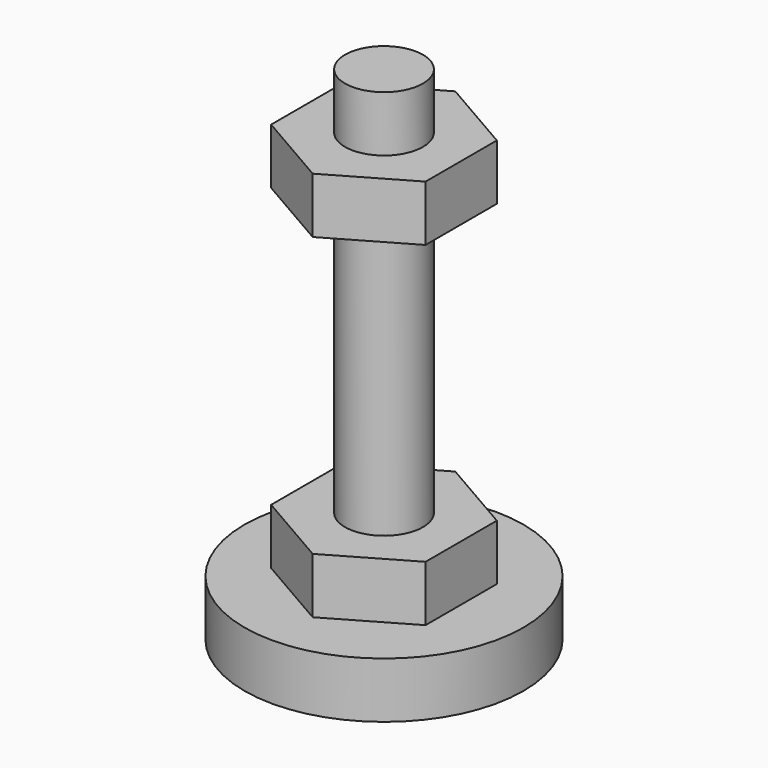
from build123d import *

# Parameters (mm, degrees)
F0_R      = 635
F1_DEPTH  = 254
F3_DEPTH  = 254
F4_R      = 177.5274912945
F5_DEPTH  = 1778
F6_START  = 1270
F3_FACE_R = 177.5274912945
F6_DEPTH  = 254


with BuildPart() as f1:
    # F0 (on Top) → F1 (new body)
    with BuildSketch(Plane.XY):
        Circle(F0_R)
    extrude(amount=F1_DEPTH)

    # F2 (on face) → F3 (join)
    with BuildSketch(Plane.XY.offset(254)):
        Polygon((351.4767885208, -202.9252184664), (351.4767885208, 202.9252184664), (0, 405.8504369328), (-351.4767885208, 202.9252184664), (-351.4767885208, -202.9252184664), (0, -405.8504369328), align=None)
    extrude(amount=F3_DEPTH)

    # F4 (on face) → F5 (join)
    with BuildSketch(Plane.XY.offset(508)):
        Circle(F4_R)
    extrude(amount=F5_DEPTH)

    # F3_face (on face) → F6 (join)
    with BuildSketch(Plane.XY.offset(508).offset(F6_START)):
        Polygon((0, -405.8504369328), (351.4767885208, -202.9252184664), (351.4767885208, 202.9252184664), (0, 405.8504369328), (-351.4767885208, 202.9252184664), (-351.4767885208, -202.9252184664), align=None)
        Circle(F3_FACE_R, mode=Mode.SUBTRACT)
    extrude(amount=F6_DEPTH)


solid = f1.part
